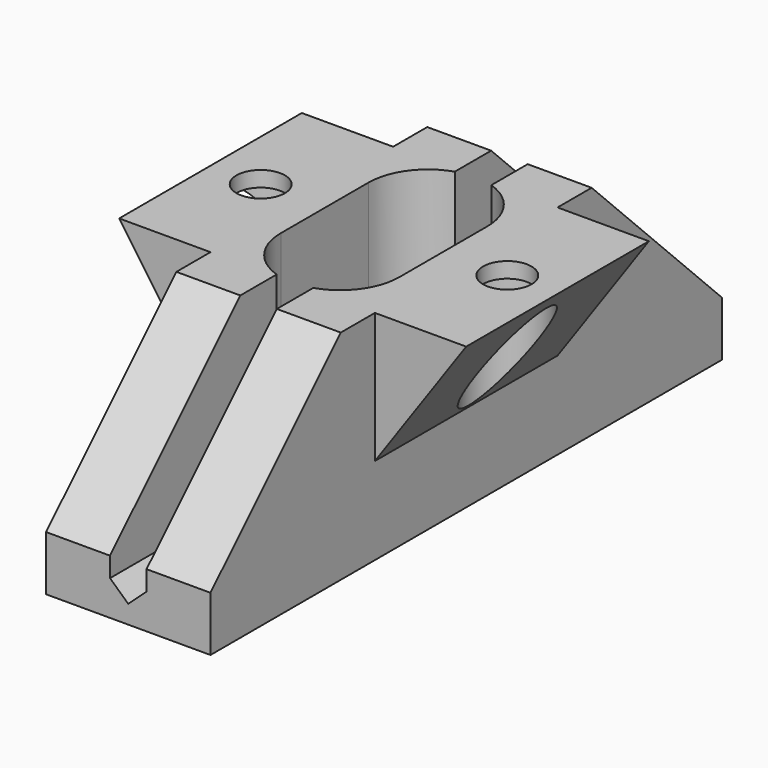
from build123d import *

# Parameters (mm, degrees)
PAD_DEPTH        = 35
POCKET_DEPTH     = 20
PAD001_DEPTH     = 12.5
HOLE_D           = 5.3
HOLE_DEPTH       = 25
HOLE_CBORE_D     = 8.5
HOLE_CBORE_DEPTH = 12.3
POCKET001_DEPTH  = 11


with BuildPart() as part:
    # Sketch → Pad (new body, symmetric)
    with BuildSketch(Plane.XZ):
        Polygon((-9, 0), (9, 0), (9, 23.832662), (2, 23.832662), (2, 3.832662), (0, 2), (-2, 3.832662), (-2, 23.832662), (-9, 23.832662), align=None)
    extrude(amount=PAD_DEPTH, both=True)

    # Sketch001 (on Face3 of Pad) → Pocket (cut)
    with BuildSketch(Plane(origin=(0, 0, 23.832662), x_dir=(-1, 0, 0), z_dir=(0, 0, 1))):
        with BuildLine():
            ThreePointArc((6.5, 6), (0, 12.5), (-6.5, 6))
            Line((-6.5, 6), (-6.5, -6))
            ThreePointArc((-6.5, -6), (0, -12.5), (6.5, -6))
            Line((6.5, 6), (6.5, -6))
        make_face()
    extrude(amount=-POCKET_DEPTH, mode=Mode.SUBTRACT)

    # Sketch002 → Pad001 (join, symmetric)
    with BuildSketch(Plane.XZ):
        Polygon((9, 23.832662), (19, 23.832662), (9, 9.551182), align=None)
        Polygon((-9, 23.832662), (-19, 23.832662), (-9, 9.551182), align=None)
    extrude(amount=PAD001_DEPTH, both=True)

    # Hole
    with Locations(Plane(origin=(0, 0, 9.832662), x_dir=(-1, 0, 0), z_dir=(0, 0, -1))):
        with Locations((-13.5, 0), (13.5, 0)):
            CounterBoreHole(HOLE_D / 2, HOLE_CBORE_D / 2, HOLE_CBORE_DEPTH, depth=HOLE_DEPTH)

    # Sketch005 → Pocket001 (cut, symmetric)
    with BuildSketch(Plane.YZ):
        Polygon((-36, 25), (-36, 5), (-16, 25), align=None)
        Polygon((16, 25), (36, 25), (36, 5), align=None)
    extrude(amount=POCKET001_DEPTH, both=True, mode=Mode.SUBTRACT)


solid = part.part
